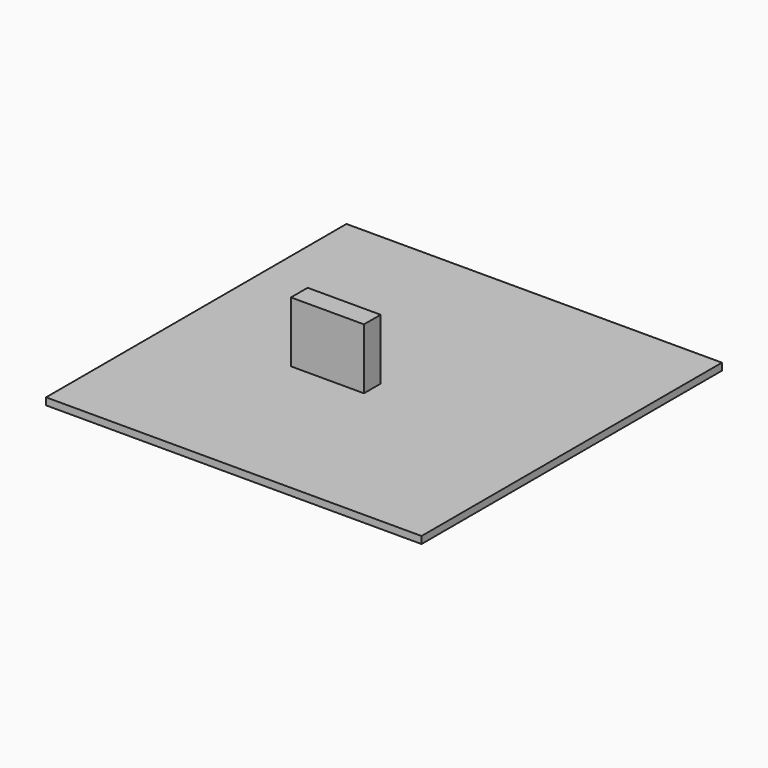
from build123d import *

# Parameters (mm, degrees)
F0_W     = 457.2
F0_H     = 457.2
F1_DEPTH = 8.636
F2_W     = 88.9
F2_H     = 8.636
F2_H_2   = 73.914
F3_DEPTH = 25.4


with BuildPart() as f1:
    # F0 (on Top) → F1 (new body)
    with BuildSketch(Plane.XY):
        with Locations((-2.272465, 7.960376)):
            Rectangle(F0_W, F0_H)
    extrude(amount=F1_DEPTH)

    # F2 (on Front) → F3 (join)
    with BuildSketch(Plane.XZ):
        with Locations((-44.45, 4.318)):
            Rectangle(F2_W, F2_H)
        with Locations((-44.45, 45.593)):
            Rectangle(F2_W, F2_H_2)
    extrude(amount=F3_DEPTH)


solid = f1.part
